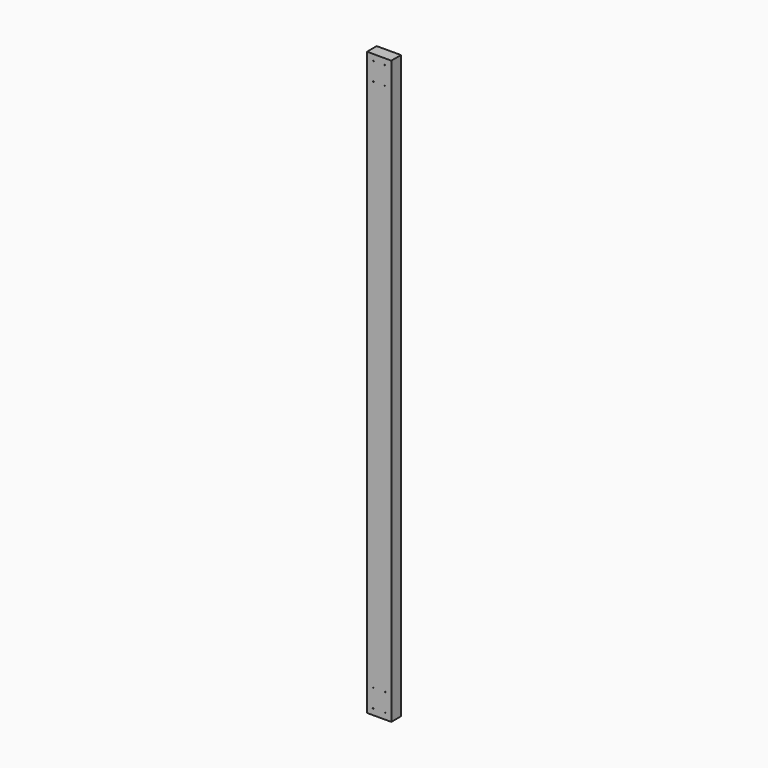
from build123d import *

# Parameters (mm, degrees)
F0_W     = 101.6
F0_H     = 2438.4
F0_R     = 1.5875
F1_DEPTH = 50.8


with BuildPart() as f1:
    # F0 (on Front) → F1 (new body)
    with BuildSketch(Plane.XZ):
        with Locations((-53.511513, 834.093831)):
            Rectangle(F0_W, F0_H)
        with Locations((-78.911513, -359.706169)):
            Circle(F0_R, mode=Mode.SUBTRACT)
        with Locations((-78.911513, -283.506169)):
            Circle(F0_R, mode=Mode.SUBTRACT)
        with Locations((-28.111513, -359.706169)):
            Circle(F0_R, mode=Mode.SUBTRACT)
        with Locations((-28.111513, -283.506169)):
            Circle(F0_R, mode=Mode.SUBTRACT)
        with Locations((-77.324013, 1951.693831)):
            Circle(F0_R, mode=Mode.SUBTRACT)
        with Locations((-77.324013, 2027.893831)):
            Circle(F0_R, mode=Mode.SUBTRACT)
        with Locations((-29.699013, 1951.693831)):
            Circle(F0_R, mode=Mode.SUBTRACT)
        with Locations((-29.699013, 2027.893831)):
            Circle(F0_R, mode=Mode.SUBTRACT)
    extrude(amount=F1_DEPTH)


solid = f1.part
